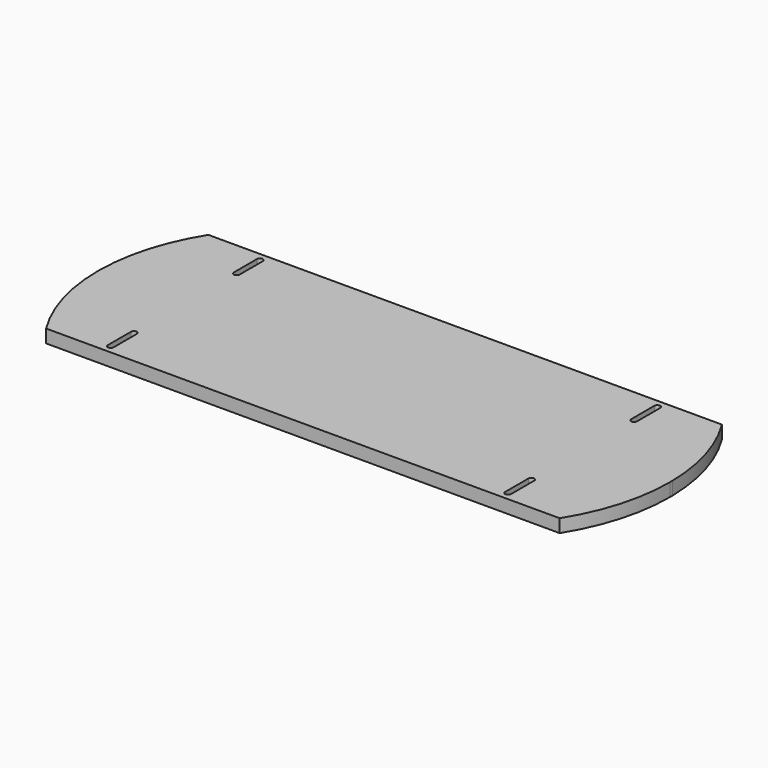
from build123d import *

# Parameters (mm, degrees)
F0_W     = 1244.6
F0_H     = 28.575
F1_DEPTH = 220.6625
F3_DEPTH = 50.8
F4_DEPTH = 50.8


with BuildPart() as f1:
    # F0 (on Front) → F1 (new body, symmetric)
    with BuildSketch(Plane.XZ):
        Rectangle(F0_W, F0_H)
    extrude(amount=F1_DEPTH, both=True)

    # F2 (on face) → F3 (cut)
    with BuildSketch(Plane.XY.offset(14.2875)):
        with BuildLine():
            ThreePointArc((-438.683658, 139.539675), (-432.254002, 133.270344), (-425.98467, 139.7))
            Line((-425.98467, 139.7), (-425.985175, 202.879553))
            ThreePointArc((-425.985175, 202.879553), (-432.254609, 209.309109), (-438.684165, 203.039675))
            Line((-438.684165, 203.039675), (-438.683658, 139.539675))
        make_face()
        with BuildLine():
            ThreePointArc((-425.98467, -139.7), (-432.254002, -133.270344), (-438.683658, -139.539675))
            Line((-438.683658, -139.539675), (-438.684165, -203.039675))
            ThreePointArc((-438.684165, -203.039675), (-432.254609, -209.309109), (-425.985175, -202.879553))
            Line((-425.985175, -202.879553), (-425.98467, -139.7))
        make_face()
        with BuildLine():
            ThreePointArc((425.98467, 139.7), (432.254002, 133.270344), (438.683658, 139.539675))
            Line((438.683658, 139.539675), (438.684165, 203.039675))
            ThreePointArc((438.684165, 203.039675), (432.254609, 209.309109), (425.985175, 202.879553))
            Line((425.985175, 202.879553), (425.98467, 139.7))
        make_face()
        with BuildLine():
            Line((438.684165, -203.039675), (438.683658, -139.539675))
            ThreePointArc((438.683658, -139.539675), (432.254002, -133.270344), (425.98467, -139.7))
            Line((425.98467, -139.7), (425.985175, -202.879553))
            ThreePointArc((425.985175, -202.879553), (432.254609, -209.309109), (438.684165, -203.039675))
        make_face()
    extrude(amount=-F3_DEPTH, mode=Mode.SUBTRACT)

    # F2 (on face) → F4 (cut)
    with BuildSketch(Plane.XY.offset(14.2875)):
        with BuildLine():
            ThreePointArc((-558.8, -220.6625), (-606.109285, -114.808742), (-622.3, 0))
            Line((-622.3, 0), (-622.3, -220.6625))
            Line((-622.3, -220.6625), (-558.8, -220.6625))
        make_face()
        with BuildLine():
            Line((-622.3, 6.35), (-622.251434, 6.35))
            ThreePointArc((-622.251434, 6.35), (-605.219554, 117.85665), (-558.8, 220.6625))
            Line((-558.8, 220.6625), (-622.3, 220.6625))
            Line((-622.3, 220.6625), (-622.3, 6.35))
        make_face()
        with BuildLine():
            Line((622.3, -220.6625), (622.3, 0))
            ThreePointArc((622.3, 0), (606.109285, -114.808742), (558.8, -220.6625))
            Line((558.8, -220.6625), (622.3, -220.6625))
        make_face()
        with BuildLine():
            Line((622.251434, 6.35), (622.3, 6.35))
            Line((622.3, 6.35), (622.3, 220.6625))
            Line((622.3, 220.6625), (558.8, 220.6625))
            ThreePointArc((558.8, 220.6625), (605.219554, 117.85665), (622.251434, 6.35))
        make_face()
    extrude(amount=-F4_DEPTH, mode=Mode.SUBTRACT)


solid = f1.part
